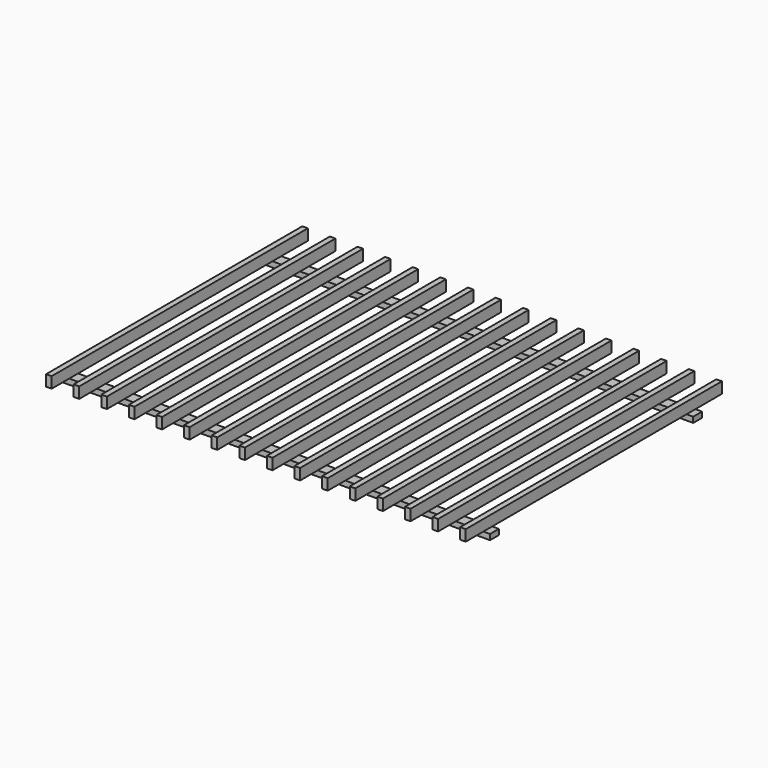
from build123d import *

# Parameters (mm, degrees)
F0_W     = 25
F0_H     = 100
F0_H_2   = 150
F0_H_3   = 1150
F0_H_4   = 25
F1_DEPTH = 50
F2_W     = 1960
F2_H     = 50
F3_DEPTH = 25


with BuildPart() as f1:
    # F0 (on Top) → F1 (new body)
    with BuildSketch(Plane.XY):
        with Locations((42.5, 100)):
            Rectangle(F0_W, F0_H)
        with Locations((42.5, 1425)):
            Rectangle(F0_W, F0_H_2)
        with Locations((42.5, 750)):
            Rectangle(F0_W, F0_H_3)
        with Locations((42.5, 162.5)):
            Rectangle(F0_W, F0_H_4)
        with Locations((42.5, 1337.5)):
            Rectangle(F0_W, F0_H_4)
    extrude(amount=F1_DEPTH)


with BuildPart() as f1b:
    # F0 (on Top) → F1, piece 2 (new body)
    with BuildSketch(Plane.XY):
        with Locations((167.5, 100)):
            Rectangle(F0_W, F0_H)
        with Locations((167.5, 1425)):
            Rectangle(F0_W, F0_H_2)
        with Locations((167.5, 162.5)):
            Rectangle(F0_W, F0_H_4)
        with Locations((167.5, 1337.5)):
            Rectangle(F0_W, F0_H_4)
        with Locations((167.5, 750)):
            Rectangle(F0_W, F0_H_3)
    extrude(amount=F1_DEPTH)


with BuildPart() as f1c:
    # F0 (on Top) → F1, piece 3 (new body)
    with BuildSketch(Plane.XY):
        with Locations((292.5, 100)):
            Rectangle(F0_W, F0_H)
        with Locations((292.5, 1425)):
            Rectangle(F0_W, F0_H_2)
        with Locations((292.5, 162.5)):
            Rectangle(F0_W, F0_H_4)
        with Locations((292.5, 1337.5)):
            Rectangle(F0_W, F0_H_4)
        with Locations((292.5, 750)):
            Rectangle(F0_W, F0_H_3)
    extrude(amount=F1_DEPTH)


with BuildPart() as f1d:
    # F0 (on Top) → F1, piece 4 (new body)
    with BuildSketch(Plane.XY):
        with Locations((417.5, 100)):
            Rectangle(F0_W, F0_H)
        with Locations((417.5, 1425)):
            Rectangle(F0_W, F0_H_2)
        with Locations((417.5, 162.5)):
            Rectangle(F0_W, F0_H_4)
        with Locations((417.5, 1337.5)):
            Rectangle(F0_W, F0_H_4)
        with Locations((417.5, 750)):
            Rectangle(F0_W, F0_H_3)
    extrude(amount=F1_DEPTH)


with BuildPart() as f1e:
    # F0 (on Top) → F1, piece 5 (new body)
    with BuildSketch(Plane.XY):
        with Locations((542.5, 100)):
            Rectangle(F0_W, F0_H)
        with Locations((542.5, 1425)):
            Rectangle(F0_W, F0_H_2)
        with Locations((542.5, 162.5)):
            Rectangle(F0_W, F0_H_4)
        with Locations((542.5, 1337.5)):
            Rectangle(F0_W, F0_H_4)
        with Locations((542.5, 750)):
            Rectangle(F0_W, F0_H_3)
    extrude(amount=F1_DEPTH)


with BuildPart() as f1f:
    # F0 (on Top) → F1, piece 6 (new body)
    with BuildSketch(Plane.XY):
        with Locations((667.5, 100)):
            Rectangle(F0_W, F0_H)
        with Locations((667.5, 1425)):
            Rectangle(F0_W, F0_H_2)
        with Locations((667.5, 162.5)):
            Rectangle(F0_W, F0_H_4)
        with Locations((667.5, 1337.5)):
            Rectangle(F0_W, F0_H_4)
        with Locations((667.5, 750)):
            Rectangle(F0_W, F0_H_3)
    extrude(amount=F1_DEPTH)


with BuildPart() as f1g:
    # F0 (on Top) → F1, piece 7 (new body)
    with BuildSketch(Plane.XY):
        with Locations((792.5, 100)):
            Rectangle(F0_W, F0_H)
        with Locations((792.5, 1425)):
            Rectangle(F0_W, F0_H_2)
        with Locations((792.5, 162.5)):
            Rectangle(F0_W, F0_H_4)
        with Locations((792.5, 1337.5)):
            Rectangle(F0_W, F0_H_4)
        with Locations((792.5, 750)):
            Rectangle(F0_W, F0_H_3)
    extrude(amount=F1_DEPTH)


with BuildPart() as f1h:
    # F0 (on Top) → F1, piece 8 (new body)
    with BuildSketch(Plane.XY):
        with Locations((917.5, 100)):
            Rectangle(F0_W, F0_H)
        with Locations((917.5, 1425)):
            Rectangle(F0_W, F0_H_2)
        with Locations((917.5, 162.5)):
            Rectangle(F0_W, F0_H_4)
        with Locations((917.5, 1337.5)):
            Rectangle(F0_W, F0_H_4)
        with Locations((917.5, 750)):
            Rectangle(F0_W, F0_H_3)
    extrude(amount=F1_DEPTH)


with BuildPart() as f1i:
    # F0 (on Top) → F1, piece 9 (new body)
    with BuildSketch(Plane.XY):
        with Locations((1042.5, 100)):
            Rectangle(F0_W, F0_H)
        with Locations((1042.5, 1425)):
            Rectangle(F0_W, F0_H_2)
        with Locations((1042.5, 162.5)):
            Rectangle(F0_W, F0_H_4)
        with Locations((1042.5, 1337.5)):
            Rectangle(F0_W, F0_H_4)
        with Locations((1042.5, 750)):
            Rectangle(F0_W, F0_H_3)
    extrude(amount=F1_DEPTH)


with BuildPart() as f1j:
    # F0 (on Top) → F1, piece 10 (new body)
    with BuildSketch(Plane.XY):
        with Locations((1167.5, 100)):
            Rectangle(F0_W, F0_H)
        with Locations((1167.5, 1425)):
            Rectangle(F0_W, F0_H_2)
        with Locations((1167.5, 162.5)):
            Rectangle(F0_W, F0_H_4)
        with Locations((1167.5, 1337.5)):
            Rectangle(F0_W, F0_H_4)
        with Locations((1167.5, 750)):
            Rectangle(F0_W, F0_H_3)
    extrude(amount=F1_DEPTH)


with BuildPart() as f1k:
    # F0 (on Top) → F1, piece 11 (new body)
    with BuildSketch(Plane.XY):
        with Locations((1292.5, 100)):
            Rectangle(F0_W, F0_H)
        with Locations((1292.5, 1425)):
            Rectangle(F0_W, F0_H_2)
        with Locations((1292.5, 162.5)):
            Rectangle(F0_W, F0_H_4)
        with Locations((1292.5, 1337.5)):
            Rectangle(F0_W, F0_H_4)
        with Locations((1292.5, 750)):
            Rectangle(F0_W, F0_H_3)
    extrude(amount=F1_DEPTH)


with BuildPart() as f1l:
    # F0 (on Top) → F1, piece 12 (new body)
    with BuildSketch(Plane.XY):
        with Locations((1417.5, 100)):
            Rectangle(F0_W, F0_H)
        with Locations((1417.5, 1425)):
            Rectangle(F0_W, F0_H_2)
        with Locations((1417.5, 162.5)):
            Rectangle(F0_W, F0_H_4)
        with Locations((1417.5, 1337.5)):
            Rectangle(F0_W, F0_H_4)
        with Locations((1417.5, 750)):
            Rectangle(F0_W, F0_H_3)
    extrude(amount=F1_DEPTH)


with BuildPart() as f1m:
    # F0 (on Top) → F1, piece 13 (new body)
    with BuildSketch(Plane.XY):
        with Locations((1542.5, 100)):
            Rectangle(F0_W, F0_H)
        with Locations((1542.5, 1425)):
            Rectangle(F0_W, F0_H_2)
        with Locations((1542.5, 162.5)):
            Rectangle(F0_W, F0_H_4)
        with Locations((1542.5, 1337.5)):
            Rectangle(F0_W, F0_H_4)
        with Locations((1542.5, 750)):
            Rectangle(F0_W, F0_H_3)
    extrude(amount=F1_DEPTH)


with BuildPart() as f1n:
    # F0 (on Top) → F1, piece 14 (new body)
    with BuildSketch(Plane.XY):
        with Locations((1667.5, 100)):
            Rectangle(F0_W, F0_H)
        with Locations((1667.5, 1425)):
            Rectangle(F0_W, F0_H_2)
        with Locations((1667.5, 162.5)):
            Rectangle(F0_W, F0_H_4)
        with Locations((1667.5, 1337.5)):
            Rectangle(F0_W, F0_H_4)
        with Locations((1667.5, 750)):
            Rectangle(F0_W, F0_H_3)
    extrude(amount=F1_DEPTH)


with BuildPart() as f1o:
    # F0 (on Top) → F1, piece 15 (new body)
    with BuildSketch(Plane.XY):
        with Locations((1792.5, 100)):
            Rectangle(F0_W, F0_H)
        with Locations((1792.5, 1425)):
            Rectangle(F0_W, F0_H_2)
        with Locations((1792.5, 162.5)):
            Rectangle(F0_W, F0_H_4)
        with Locations((1792.5, 1337.5)):
            Rectangle(F0_W, F0_H_4)
        with Locations((1792.5, 750)):
            Rectangle(F0_W, F0_H_3)
    extrude(amount=F1_DEPTH)


with BuildPart() as f1p:
    # F0 (on Top) → F1, piece 16 (new body)
    with BuildSketch(Plane.XY):
        with Locations((1917.5, 100)):
            Rectangle(F0_W, F0_H)
        with Locations((1917.5, 1425)):
            Rectangle(F0_W, F0_H_2)
        with Locations((1917.5, 750)):
            Rectangle(F0_W, F0_H_3)
        with Locations((1917.5, 162.5)):
            Rectangle(F0_W, F0_H_4)
        with Locations((1917.5, 1337.5)):
            Rectangle(F0_W, F0_H_4)
    extrude(amount=F1_DEPTH)


with BuildPart() as f3:
    # F2 (on Top) → F3 (new body)
    with BuildSketch(Plane.XY):
        with Locations((980, 175)):
            Rectangle(F2_W, F2_H)
    extrude(amount=-F3_DEPTH)


with BuildPart() as f3b:
    # F2 (on Top) → F3, piece 2 (new body)
    with BuildSketch(Plane.XY):
        with Locations((980, 1325)):
            Rectangle(F2_W, F2_H)
    extrude(amount=-F3_DEPTH)


solid = Compound([f1.part, f1b.part, f1c.part, f1d.part, f1e.part, f1f.part, f1g.part, f1h.part, f1i.part, f1j.part, f1k.part, f1l.part, f1m.part, f1n.part, f1o.part, f1p.part, f3.part, f3b.part])
